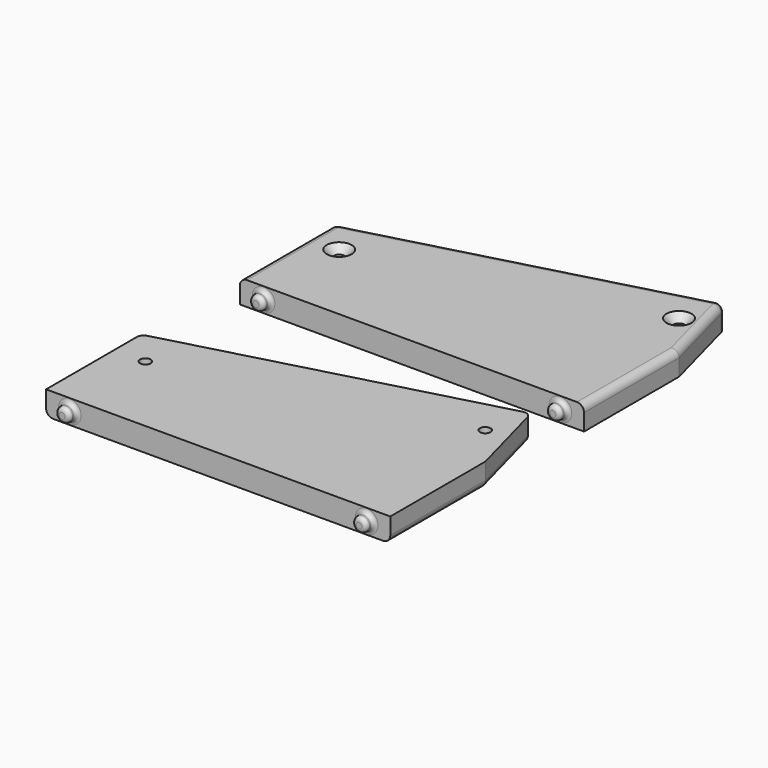
from build123d import *

# Parameters (mm, degrees)
PAD_DEPTH        = 10
SKETCH001_R      = 2.25
POCKET_DEPTH     = 10
CHAMFER_SIZE     = 3
FILLET_R         = 3
SKETCH005_R      = 3
PAD003_DEPTH     = 4
FILLET003_R      = 1.75
PAD001_DEPTH     = 10
SKETCH003_R      = 2.25
POCKET001_DEPTH  = 10
CHAMFER001_ANGLE = 45
CHAMFER001_SIZE  = 3
FILLET001_R      = 3
SKETCH004_R      = 3
PAD002_DEPTH     = 4
FILLET002_R      = 1.75


with BuildPart() as left:
    # Sketch → Pad (new body)
    with BuildSketch(Plane.XY):
        Polygon((0, 0), (135.22963, 36.234614), (144.938663, 0), (144.938663, -50), (0, -50), align=None)
    extrude(amount=PAD_DEPTH)

    # Sketch001 (on Face7 of Pad) → Pocket (cut)
    with BuildSketch(Plane.XY.offset(10)):
        with Locations((13.093257, -14.091371)):
            Circle(SKETCH001_R)
        with Locations((130.936219, 17.484507)):
            Circle(SKETCH001_R)
    extrude(amount=-POCKET_DEPTH, mode=Mode.SUBTRACT)

    # Chamfer
    chamfer_edges = [left.edges().sort_by_distance(p)[0] for p in [
        (128.686219, 17.484507, 10),
        (10.843257, -14.091371, 10),
    ]]
    chamfer(chamfer_edges, length=CHAMFER_SIZE)

    # Fillet
    fillet_edges = [left.edges().sort_by_distance(p)[0] for p in [
        (144.938663, -25, 10),
        (140.084146, 18.117307, 10),
        (67.614815, 18.117307, 10),
        (0, -25, 10),
        (135.22963, 36.234614, 5),
        (0, 0, 5),
    ]]
    fillet(fillet_edges, radius=FILLET_R)

    # Sketch005 (on Face2 of Fillet) → Pad003 (join)
    with BuildSketch(Plane.XZ.offset(50)):
        with Locations((10, 5)):
            Circle(SKETCH005_R)
        with Locations((135, 5)):
            Circle(SKETCH005_R)
    extrude(amount=PAD003_DEPTH)

    # Fillet003
    fillet003_edges = [left.edges().sort_by_distance(p)[0] for p in [
        (132, -54, 5),
        (132, -50, 5),
        (7, -54, 5),
        (7, -50, 5),
    ]]
    fillet(fillet003_edges, radius=FILLET003_R)


with BuildPart() as right:
    # Sketch002 → Pad001 (new body)
    with BuildSketch(Plane.XY):
        Polygon((0, 0), (135.22963, 36.234614), (144.938663, 0), (144.938663, -50), (0, -50), align=None)
    extrude(amount=PAD001_DEPTH)

    # Sketch003 (on Face7 of Pad001) → Pocket001 (cut)
    with BuildSketch(Plane.XY.offset(10)):
        with Locations((13.093257, -14.091371)):
            Circle(SKETCH003_R)
        with Locations((130.936219, 17.484507)):
            Circle(SKETCH003_R)
    extrude(amount=-POCKET001_DEPTH, mode=Mode.SUBTRACT)

    # Chamfer001
    chamfer001_edges = [right.edges().sort_by_distance(p)[0] for p in [
        (128.686219, 17.484507, 0),
        (10.843257, -14.091371, 0),
    ]]
    chamfer001_side = right.faces().sort_by_distance((78.052949, -15.192644, 0))[0]
    chamfer(chamfer001_edges, length=CHAMFER001_SIZE, angle=CHAMFER001_ANGLE, reference=chamfer001_side)

    # Fillet001
    fillet001_edges = [right.edges().sort_by_distance(p)[0] for p in [
        (140.084146, 18.117307, 0),
        (144.938663, -25, 0),
        (0, -25, 0),
        (67.614815, 18.117307, 0),
        (135.22963, 36.234614, 5),
        (0, 0, 5),
    ]]
    fillet(fillet001_edges, radius=FILLET001_R)

    # Sketch004 (on Face2 of Fillet001) → Pad002 (join)
    with BuildSketch(Plane.XZ.offset(50)):
        with Locations((10, 5)):
            Circle(SKETCH004_R)
        with Locations((135, 5)):
            Circle(SKETCH004_R)
    extrude(amount=PAD002_DEPTH)

    # Fillet002
    fillet002_edges = [right.edges().sort_by_distance(p)[0] for p in [
        (7, -54, 5),
        (132, -54, 5),
        (132, -50, 5),
        (7, -50, 5),
    ]]
    fillet(fillet002_edges, radius=FILLET002_R)


with BuildPart() as right_1:
    # Body001 placement: moved
    add(right.part.moved(Location((0, -102, 0))))


solid = Compound([left.part, right_1.part])
